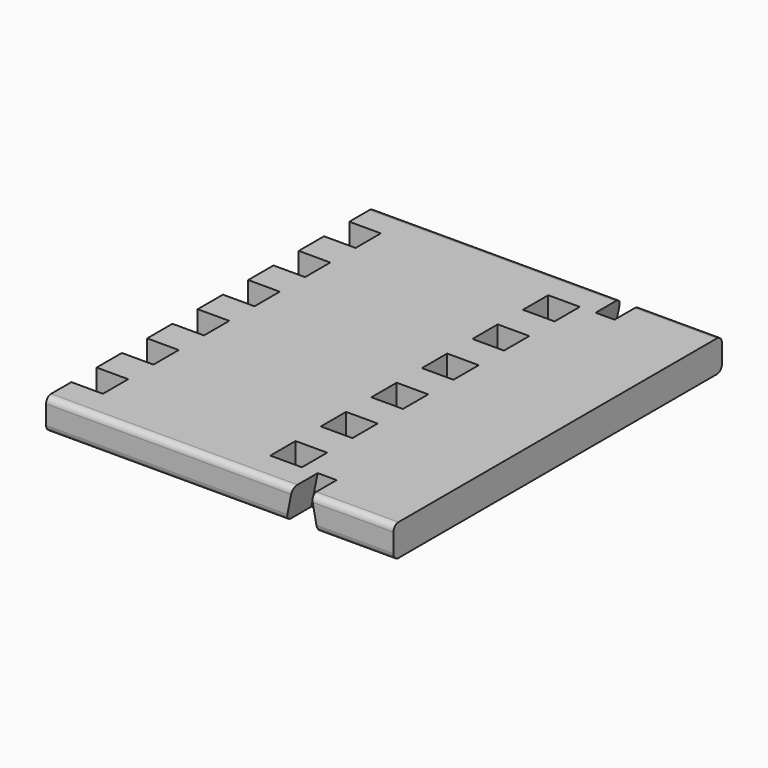
from build123d import *

# Parameters (mm, degrees)
F0_W      = 25
F0_H      = 25
F1_DEPTH  = 25
F3_DEPTH  = 25
F9_W      = 25
F9_H      = 25
F10_DEPTH = 25
F11_R     = 5
F12_R     = 5


with BuildPart() as f1:
    # F0 (on Top) → F1 (new body)
    with BuildSketch(Plane.XY):
        Polygon((38.8634320385, -116.9341091547), (38.8634320385, -141.9341091547), (288.8634320385, -141.9341091547), (288.8634320385, 183.0658908453), (38.8634320385, 183.0658908453), (38.8634320385, 158.0658908453), (38.8634320385, 133.0658908453), (38.8634320385, 108.0658908453), (38.8634320385, 83.0658908453), (38.8634320385, 58.0658908453), (38.8634320385, 33.0658908453), (38.8634320385, 8.0658908453), (38.8634320385, -16.9341091547), (38.8634320385, -41.9341091547), (38.8634320385, -66.9341091547), (38.8634320385, -91.9341091547), align=None)
        with Locations((26.3634320385, -129.4341091547)):
            Rectangle(F0_W, F0_H)
        with Locations((26.3634320385, -79.4341091547)):
            Rectangle(F0_W, F0_H)
        with Locations((26.3634320385, -29.4341091547)):
            Rectangle(F0_W, F0_H)
        with Locations((26.3634320385, 20.5658908453)):
            Rectangle(F0_W, F0_H)
        with Locations((26.3634320385, 70.5658908453)):
            Rectangle(F0_W, F0_H)
        with Locations((26.3634320385, 120.5658908453)):
            Rectangle(F0_W, F0_H)
        with Locations((26.3634320385, 170.5658908453)):
            Rectangle(F0_W, F0_H)
    extrude(amount=F1_DEPTH)

    # F2 (on face) → F3 (cut)
    with BuildSketch(Plane.XZ.offset(141.9341091547)):
        Polygon((208.8634320385, 25), (203.8634320385, 0), (228.8634320385, 0), (223.8634320385, 25), align=None)
    extrude(amount=-F3_DEPTH, mode=Mode.SUBTRACT)

    # F8: F1 across plane


with BuildPart() as f1_1:
    add(f1.part)
    add(f1.part.mirror(Plane(origin=(288.8634320385, 20.5658908453, 0), x_dir=(0, 0, 1), z_dir=(0, 1, 0))), mode=Mode.INTERSECT)

    # F9 (on face) → F10 (cut)
    with BuildSketch(Plane(origin=(0, 0, 0), x_dir=(1, 0, 0), z_dir=(0, 0, -1))):
        with Locations((183.8634320385, -145.5658908453)):
            Rectangle(F9_W, F9_H)
        with Locations((183.8634320385, -95.5658908453)):
            Rectangle(F9_W, F9_H)
        with Locations((183.8634320385, -45.5658908453)):
            Rectangle(F9_W, F9_H)
        with Locations((183.8634320385, 4.4341091547)):
            Rectangle(F9_W, F9_H)
        with Locations((183.8634320385, 54.4341091547)):
            Rectangle(F9_W, F9_H)
        with Locations((183.8634320385, 104.4341091547)):
            Rectangle(F9_W, F9_H)
    extrude(amount=-F10_DEPTH, mode=Mode.SUBTRACT)

    # F11
    f11_edges = [f1_1.edges().sort_by_distance(p)[0] for p in [
        (108.863432, -141.934109, 0),
        (111.363432, -141.934109, 25),
        (256.363432, -141.934109, 25),
        (258.863432, -141.934109, 0),
    ]]
    fillet(f11_edges, radius=F11_R)

    # F12
    f12_edges = [f1_1.edges().sort_by_distance(p)[0] for p in [
        (111.363432, 183.065891, 25),
        (108.863432, 183.065891, 0),
        (258.863432, 183.065891, 0),
        (256.363432, 183.065891, 25),
    ]]
    fillet(f12_edges, radius=F12_R)


solid = f1_1.part
